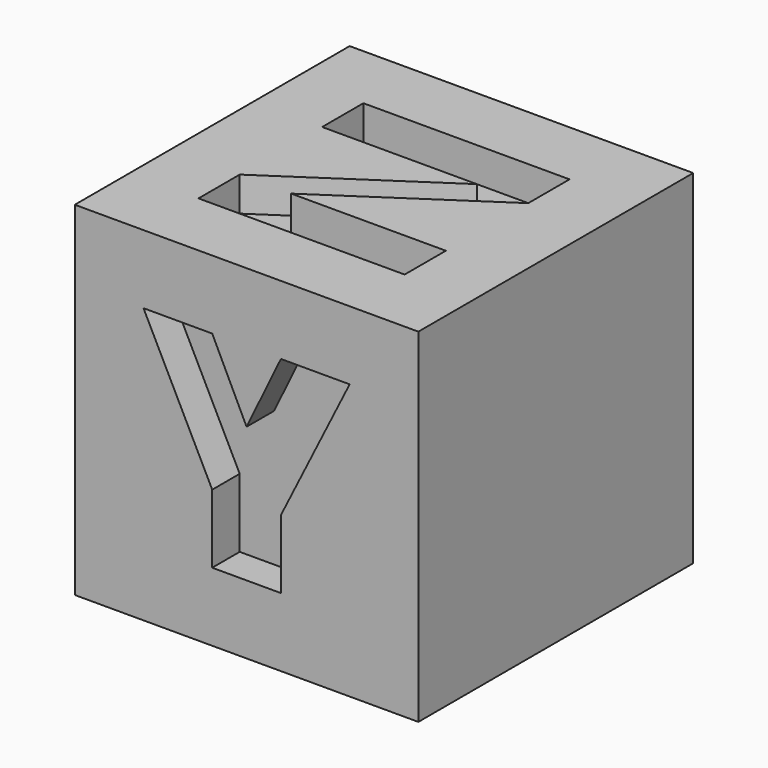
from build123d import *

# Parameters (mm, degrees)
F0_W     = 10
F0_H     = 10
F1_DEPTH = 10
F3_DEPTH = 1
F5_DEPTH = 1
F7_DEPTH = 1


with BuildPart() as f1:
    # F0 (on Top) → F1 (new body)
    with BuildSketch(Plane.XY):
        with Locations((5, 5)):
            Rectangle(F0_W, F0_H)
    extrude(amount=F1_DEPTH)

    # F2 (on face) → F3 (cut)
    with BuildSketch(Plane.XZ):
        Polygon((4, 8), (2, 8), (4, 4), (4, 2), (6, 2), (6, 4), (8, 8), (6, 8), (5, 5.936254), align=None)
    extrude(amount=-F3_DEPTH, mode=Mode.SUBTRACT)

    # F4 (on face) → F5 (cut)
    with BuildSketch(Plane(origin=(0, 0, 0), x_dir=(0, -1, 0), z_dir=(-1, 0, 0))):
        Polygon((-6.5, 8.484827), (-8.5, 8.484827), (-6.5, 5), (-8.5, 1.56175), (-6.5, 1.56175), (-5, 3.56175), (-3.5, 1.56175), (-1.5, 1.56175), (-3.5, 5), (-1.5, 8.484827), (-3.5, 8.484827), (-5, 6.484827), align=None)
    extrude(amount=-F5_DEPTH, mode=Mode.SUBTRACT)

    # F6 (on face) → F7 (cut)
    with BuildSketch(Plane.XY.offset(10)):
        Polygon((8, 8), (2, 8), (2, 6.5), (6.5, 6.5), (2, 3.5), (2, 2), (8, 2), (8, 3.5), (3.5, 3.5), (8, 6.5), align=None)
    extrude(amount=-F7_DEPTH, mode=Mode.SUBTRACT)


solid = f1.part
